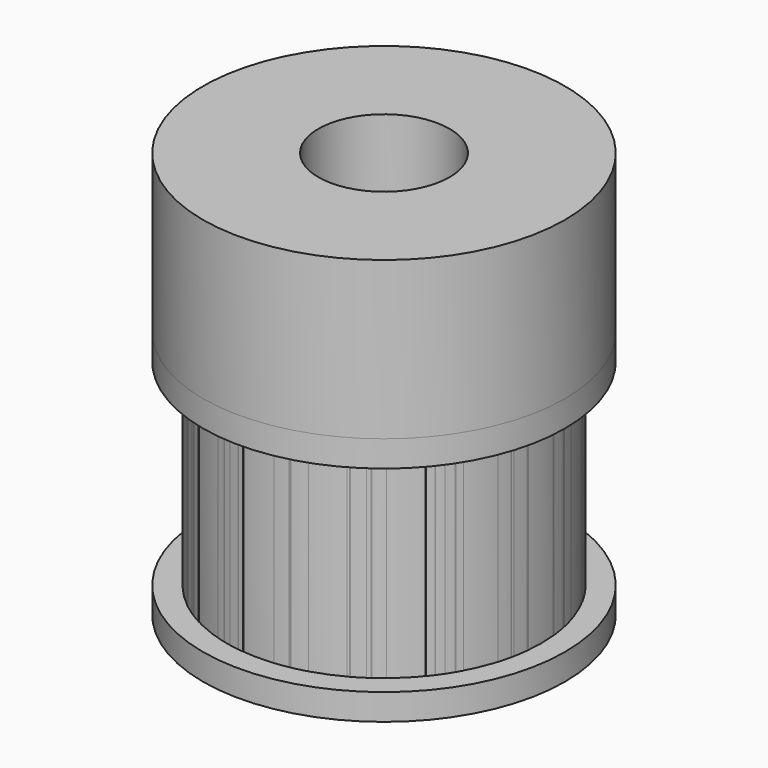
from build123d import *

# Parameters (mm, degrees)
F0_R      = 6.9
F0_R_2    = 2.5
F1_DEPTH  = 15.5
F2_START  = 1
F2_DEPTH  = 7.5
F3_R      = 1.25
F4_DEPTH  = 25
F6_DEPTH  = 9.5
F7_START  = 1
F7_DEPTH  = 7.5
F5_R      = 1.5
F8_DEPTH  = 25
F5_R_2    = 6.9
F5_R_3    = 6
F9_DEPTH  = 9.5
F10_START = 1
F10_DEPTH = 7.5


with BuildPart() as f1:
    # F0 (on Top) → F1 (new body)
    with BuildSketch(Plane.XY):
        Circle(F0_R)
        with BuildLine():
            ThreePointArc((-0.4900857016, 4.9759236334), (-0.2453383716, 4.993977281), (0, 5))
            ThreePointArc((0, 5), (0.2453383716, 4.993977281), (0.4900857016, 4.9759236334))
            Line((0.4900857016, 4.9759236334), (0.588102842, 5.97110836))
            ThreePointArc((0.588102842, 5.97110836), (0.8803828467, 5.9350590598), (1.1705419321, 5.8847116824))
            ThreePointArc((1.1705419321, 5.8847116824), (1.4578810794, 5.8201875192), (1.7417080635, 5.7416420144))
            Line((1.7417080635, 5.7416420144), (1.4514233863, 4.7847016787))
            ThreePointArc((1.4514233863, 4.7847016787), (1.684449267, 4.7077203259), (1.9134171618, 4.6193976626))
            ThreePointArc((1.9134171618, 4.6193976626), (2.1377754672, 4.5199464656), (2.3569836841, 4.4096063217))
            Line((2.3569836841, 4.4096063217), (2.828380421, 5.2915275861))
            ThreePointArc((2.828380421, 5.2915275861), (3.0846164652, 5.14637166), (3.3334213981, 4.9888176738))
            ThreePointArc((3.3334213981, 4.9888176738), (3.574195827, 4.8192451889), (3.806359705, 4.6380627202))
            Line((3.806359705, 4.6380627202), (3.1719664208, 3.8650522668))
            ThreePointArc((3.1719664208, 3.8650522668), (3.3577947742, 3.7047556268), (3.5355339059, 3.5355339059))
            ThreePointArc((3.5355339059, 3.5355339059), (3.7047556268, 3.3577947742), (3.8650522668, 3.1719664208))
            Line((3.8650522668, 3.1719664208), (4.6380627202, 3.806359705))
            ThreePointArc((4.6380627202, 3.806359705), (4.8192451889, 3.574195827), (4.9888176738, 3.3334213981))
            ThreePointArc((4.9888176738, 3.3334213981), (5.14637166, 3.0846164652), (5.2915275861, 2.828380421))
            Line((5.2915275861, 2.828380421), (4.4096063217, 2.3569836841))
            ThreePointArc((4.4096063217, 2.3569836841), (4.5199464656, 2.1377754672), (4.6193976626, 1.9134171618))
            ThreePointArc((4.6193976626, 1.9134171618), (4.7077203259, 1.684449267), (4.7847016787, 1.4514233863))
            Line((4.7847016787, 1.4514233863), (5.7416420144, 1.7417080635))
            ThreePointArc((5.7416420144, 1.7417080635), (5.8201875192, 1.4578810794), (5.8847116824, 1.1705419321))
            ThreePointArc((5.8847116824, 1.1705419321), (5.9350590598, 0.8803828467), (5.97110836, 0.588102842))
            Line((5.97110836, 0.588102842), (4.9759236334, 0.4900857016))
            ThreePointArc((4.9759236334, 0.4900857016), (4.993977281, 0.2453383716), (5, 0))
            ThreePointArc((5, 0), (4.993977281, -0.2453383716), (4.9759236334, -0.4900857016))
            Line((4.9759236334, -0.4900857016), (5.97110836, -0.588102842))
            ThreePointArc((5.97110836, -0.588102842), (5.9350590598, -0.8803828467), (5.8847116824, -1.1705419321))
            ThreePointArc((5.8847116824, -1.1705419321), (5.8201875192, -1.4578810794), (5.7416420144, -1.7417080635))
            Line((5.7416420144, -1.7417080635), (4.7847016787, -1.4514233863))
            ThreePointArc((4.7847016787, -1.4514233863), (4.7077203259, -1.684449267), (4.6193976626, -1.9134171618))
            ThreePointArc((4.6193976626, -1.9134171618), (4.5199464656, -2.1377754672), (4.4096063217, -2.3569836841))
            Line((4.4096063217, -2.3569836841), (5.2915275861, -2.828380421))
            ThreePointArc((5.2915275861, -2.828380421), (5.14637166, -3.0846164652), (4.9888176738, -3.3334213981))
            ThreePointArc((4.9888176738, -3.3334213981), (4.8192451889, -3.574195827), (4.6380627202, -3.806359705))
            Line((4.6380627202, -3.806359705), (3.8650522668, -3.1719664208))
            ThreePointArc((3.8650522668, -3.1719664208), (3.7047556268, -3.3577947742), (3.5355339059, -3.5355339059))
            ThreePointArc((3.5355339059, -3.5355339059), (3.3577947742, -3.7047556268), (3.1719664208, -3.8650522668))
            Line((3.1719664208, -3.8650522668), (3.806359705, -4.6380627202))
            ThreePointArc((3.806359705, -4.6380627202), (3.574195827, -4.8192451889), (3.3334213981, -4.9888176738))
            ThreePointArc((3.3334213981, -4.9888176738), (3.0846164652, -5.14637166), (2.828380421, -5.2915275861))
            Line((2.828380421, -5.2915275861), (2.3569836841, -4.4096063217))
            ThreePointArc((2.3569836841, -4.4096063217), (2.1377754672, -4.5199464656), (1.9134171618, -4.6193976626))
            ThreePointArc((1.9134171618, -4.6193976626), (1.684449267, -4.7077203259), (1.4514233863, -4.7847016787))
            Line((1.4514233863, -4.7847016787), (1.7417080635, -5.7416420144))
            ThreePointArc((1.7417080635, -5.7416420144), (1.4578810794, -5.8201875192), (1.1705419321, -5.8847116824))
            ThreePointArc((1.1705419321, -5.8847116824), (0.8803828467, -5.9350590598), (0.588102842, -5.97110836))
            Line((0.588102842, -5.97110836), (0.4900857016, -4.9759236334))
            ThreePointArc((0.4900857016, -4.9759236334), (0.2453383716, -4.993977281), (0, -5))
            ThreePointArc((0, -5), (-0.2453383716, -4.993977281), (-0.4900857016, -4.9759236334))
            Line((-0.4900857016, -4.9759236334), (-0.588102842, -5.97110836))
            ThreePointArc((-0.588102842, -5.97110836), (-0.8803828467, -5.9350590598), (-1.1705419321, -5.8847116824))
            ThreePointArc((-1.1705419321, -5.8847116824), (-1.4578810794, -5.8201875192), (-1.7417080635, -5.7416420144))
            Line((-1.7417080635, -5.7416420144), (-1.4514233863, -4.7847016787))
            ThreePointArc((-1.4514233863, -4.7847016787), (-1.684449267, -4.7077203259), (-1.9134171618, -4.6193976626))
            ThreePointArc((-1.9134171618, -4.6193976626), (-2.1377754672, -4.5199464656), (-2.3569836841, -4.4096063217))
            Line((-2.3569836841, -4.4096063217), (-2.828380421, -5.2915275861))
            ThreePointArc((-2.828380421, -5.2915275861), (-3.0846164652, -5.14637166), (-3.3334213981, -4.9888176738))
            ThreePointArc((-3.3334213981, -4.9888176738), (-3.574195827, -4.8192451889), (-3.806359705, -4.6380627202))
            Line((-3.806359705, -4.6380627202), (-3.1719664208, -3.8650522668))
            ThreePointArc((-3.1719664208, -3.8650522668), (-3.3577947742, -3.7047556268), (-3.5355339059, -3.5355339059))
            ThreePointArc((-3.5355339059, -3.5355339059), (-3.7047556268, -3.3577947742), (-3.8650522668, -3.1719664208))
            Line((-3.8650522668, -3.1719664208), (-4.6380627202, -3.806359705))
            ThreePointArc((-4.6380627202, -3.806359705), (-4.8192451889, -3.574195827), (-4.9888176738, -3.3334213981))
            ThreePointArc((-4.9888176738, -3.3334213981), (-5.14637166, -3.0846164652), (-5.2915275861, -2.828380421))
            Line((-5.2915275861, -2.828380421), (-4.4096063217, -2.3569836841))
            ThreePointArc((-4.4096063217, -2.3569836841), (-4.5199464656, -2.1377754672), (-4.6193976626, -1.9134171618))
            ThreePointArc((-4.6193976626, -1.9134171618), (-4.7077203259, -1.684449267), (-4.7847016787, -1.4514233863))
            Line((-4.7847016787, -1.4514233863), (-5.7416420144, -1.7417080635))
            ThreePointArc((-5.7416420144, -1.7417080635), (-5.8201875192, -1.4578810794), (-5.8847116824, -1.1705419321))
            ThreePointArc((-5.8847116824, -1.1705419321), (-5.9350590598, -0.8803828467), (-5.97110836, -0.588102842))
            Line((-5.97110836, -0.588102842), (-4.9759236334, -0.4900857016))
            ThreePointArc((-4.9759236334, -0.4900857016), (-4.993977281, -0.2453383716), (-5, 0))
            ThreePointArc((-5, 0), (-4.993977281, 0.2453383716), (-4.9759236334, 0.4900857016))
            Line((-4.9759236334, 0.4900857016), (-5.97110836, 0.588102842))
            ThreePointArc((-5.97110836, 0.588102842), (-5.9350590598, 0.8803828467), (-5.8847116824, 1.1705419321))
            ThreePointArc((-5.8847116824, 1.1705419321), (-5.8201875192, 1.4578810794), (-5.7416420144, 1.7417080635))
            Line((-5.7416420144, 1.7417080635), (-4.7847016787, 1.4514233863))
            ThreePointArc((-4.7847016787, 1.4514233863), (-4.7077203259, 1.684449267), (-4.6193976626, 1.9134171618))
            ThreePointArc((-4.6193976626, 1.9134171618), (-4.5199464656, 2.1377754672), (-4.4096063217, 2.3569836841))
            Line((-4.4096063217, 2.3569836841), (-5.2915275861, 2.828380421))
            ThreePointArc((-5.2915275861, 2.828380421), (-5.14637166, 3.0846164652), (-4.9888176738, 3.3334213981))
            ThreePointArc((-4.9888176738, 3.3334213981), (-4.8192451889, 3.574195827), (-4.6380627202, 3.806359705))
            Line((-4.6380627202, 3.806359705), (-3.8650522668, 3.1719664208))
            ThreePointArc((-3.8650522668, 3.1719664208), (-3.7047556268, 3.3577947742), (-3.5355339059, 3.5355339059))
            ThreePointArc((-3.5355339059, 3.5355339059), (-3.3577947742, 3.7047556268), (-3.1719664208, 3.8650522668))
            Line((-3.1719664208, 3.8650522668), (-3.806359705, 4.6380627202))
            ThreePointArc((-3.806359705, 4.6380627202), (-3.574195827, 4.8192451889), (-3.3334213981, 4.9888176738))
            ThreePointArc((-3.3334213981, 4.9888176738), (-3.0846164652, 5.14637166), (-2.828380421, 5.2915275861))
            Line((-2.828380421, 5.2915275861), (-2.3569836841, 4.4096063217))
            ThreePointArc((-2.3569836841, 4.4096063217), (-2.1377754672, 4.5199464656), (-1.9134171618, 4.6193976626))
            ThreePointArc((-1.9134171618, 4.6193976626), (-1.684449267, 4.7077203259), (-1.4514233863, 4.7847016787))
            Line((-1.4514233863, 4.7847016787), (-1.7417080635, 5.7416420144))
            ThreePointArc((-1.7417080635, 5.7416420144), (-1.4578810794, 5.8201875192), (-1.1705419321, 5.8847116824))
            ThreePointArc((-1.1705419321, 5.8847116824), (-0.8803828467, 5.9350590598), (-0.588102842, 5.97110836))
            Line((-0.588102842, 5.97110836), (-0.4900857016, 4.9759236334))
        make_face(mode=Mode.SUBTRACT)
        with BuildLine():
            ThreePointArc((0.4900857016, 4.9759236334), (0.2453383716, 4.993977281), (0, 5))
            ThreePointArc((0, 5), (-0.2453383716, 4.993977281), (-0.4900857016, 4.9759236334))
            Line((-0.4900857016, 4.9759236334), (-0.588102842, 5.97110836))
            ThreePointArc((-0.588102842, 5.97110836), (-0.8803828467, 5.9350590598), (-1.1705419321, 5.8847116824))
            ThreePointArc((-1.1705419321, 5.8847116824), (-1.4578810794, 5.8201875192), (-1.7417080635, 5.7416420144))
            Line((-1.7417080635, 5.7416420144), (-1.4514233863, 4.7847016787))
            ThreePointArc((-1.4514233863, 4.7847016787), (-1.684449267, 4.7077203259), (-1.9134171618, 4.6193976626))
            ThreePointArc((-1.9134171618, 4.6193976626), (-2.1377754672, 4.5199464656), (-2.3569836841, 4.4096063217))
            Line((-2.3569836841, 4.4096063217), (-2.828380421, 5.2915275861))
            ThreePointArc((-2.828380421, 5.2915275861), (-3.0846164652, 5.14637166), (-3.3334213981, 4.9888176738))
            ThreePointArc((-3.3334213981, 4.9888176738), (-3.574195827, 4.8192451889), (-3.806359705, 4.6380627202))
            Line((-3.806359705, 4.6380627202), (-3.1719664208, 3.8650522668))
            ThreePointArc((-3.1719664208, 3.8650522668), (-3.3577947742, 3.7047556268), (-3.5355339059, 3.5355339059))
            ThreePointArc((-3.5355339059, 3.5355339059), (-3.7047556268, 3.3577947742), (-3.8650522668, 3.1719664208))
            Line((-3.8650522668, 3.1719664208), (-4.6380627202, 3.806359705))
            ThreePointArc((-4.6380627202, 3.806359705), (-4.8192451889, 3.574195827), (-4.9888176738, 3.3334213981))
            ThreePointArc((-4.9888176738, 3.3334213981), (-5.14637166, 3.0846164652), (-5.2915275861, 2.828380421))
            Line((-5.2915275861, 2.828380421), (-4.4096063217, 2.3569836841))
            ThreePointArc((-4.4096063217, 2.3569836841), (-4.5199464656, 2.1377754672), (-4.6193976626, 1.9134171618))
            ThreePointArc((-4.6193976626, 1.9134171618), (-4.7077203259, 1.684449267), (-4.7847016787, 1.4514233863))
            Line((-4.7847016787, 1.4514233863), (-5.7416420144, 1.7417080635))
            ThreePointArc((-5.7416420144, 1.7417080635), (-5.8201875192, 1.4578810794), (-5.8847116824, 1.1705419321))
            ThreePointArc((-5.8847116824, 1.1705419321), (-5.9350590598, 0.8803828467), (-5.97110836, 0.588102842))
            Line((-5.97110836, 0.588102842), (-4.9759236334, 0.4900857016))
            ThreePointArc((-4.9759236334, 0.4900857016), (-4.993977281, 0.2453383716), (-5, 0))
            ThreePointArc((-5, 0), (-4.993977281, -0.2453383716), (-4.9759236334, -0.4900857016))
            Line((-4.9759236334, -0.4900857016), (-5.97110836, -0.588102842))
            ThreePointArc((-5.97110836, -0.588102842), (-5.9350590598, -0.8803828467), (-5.8847116824, -1.1705419321))
            ThreePointArc((-5.8847116824, -1.1705419321), (-5.8201875192, -1.4578810794), (-5.7416420144, -1.7417080635))
            Line((-5.7416420144, -1.7417080635), (-4.7847016787, -1.4514233863))
            ThreePointArc((-4.7847016787, -1.4514233863), (-4.7077203259, -1.684449267), (-4.6193976626, -1.9134171618))
            ThreePointArc((-4.6193976626, -1.9134171618), (-4.5199464656, -2.1377754672), (-4.4096063217, -2.3569836841))
            Line((-4.4096063217, -2.3569836841), (-5.2915275861, -2.828380421))
            ThreePointArc((-5.2915275861, -2.828380421), (-5.14637166, -3.0846164652), (-4.9888176738, -3.3334213981))
            ThreePointArc((-4.9888176738, -3.3334213981), (-4.8192451889, -3.574195827), (-4.6380627202, -3.806359705))
            Line((-4.6380627202, -3.806359705), (-3.8650522668, -3.1719664208))
            ThreePointArc((-3.8650522668, -3.1719664208), (-3.7047556268, -3.3577947742), (-3.5355339059, -3.5355339059))
            ThreePointArc((-3.5355339059, -3.5355339059), (-3.3577947742, -3.7047556268), (-3.1719664208, -3.8650522668))
            Line((-3.1719664208, -3.8650522668), (-3.806359705, -4.6380627202))
            ThreePointArc((-3.806359705, -4.6380627202), (-3.574195827, -4.8192451889), (-3.3334213981, -4.9888176738))
            ThreePointArc((-3.3334213981, -4.9888176738), (-3.0846164652, -5.14637166), (-2.828380421, -5.2915275861))
            Line((-2.828380421, -5.2915275861), (-2.3569836841, -4.4096063217))
            ThreePointArc((-2.3569836841, -4.4096063217), (-2.1377754672, -4.5199464656), (-1.9134171618, -4.6193976626))
            ThreePointArc((-1.9134171618, -4.6193976626), (-1.684449267, -4.7077203259), (-1.4514233863, -4.7847016787))
            Line((-1.4514233863, -4.7847016787), (-1.7417080635, -5.7416420144))
            ThreePointArc((-1.7417080635, -5.7416420144), (-1.4578810794, -5.8201875192), (-1.1705419321, -5.8847116824))
            ThreePointArc((-1.1705419321, -5.8847116824), (-0.8803828467, -5.9350590598), (-0.588102842, -5.97110836))
            Line((-0.588102842, -5.97110836), (-0.4900857016, -4.9759236334))
            ThreePointArc((-0.4900857016, -4.9759236334), (-0.2453383716, -4.993977281), (0, -5))
            ThreePointArc((0, -5), (0.2453383716, -4.993977281), (0.4900857016, -4.9759236334))
            Line((0.4900857016, -4.9759236334), (0.588102842, -5.97110836))
            ThreePointArc((0.588102842, -5.97110836), (0.8803828467, -5.9350590598), (1.1705419321, -5.8847116824))
            ThreePointArc((1.1705419321, -5.8847116824), (1.4578810794, -5.8201875192), (1.7417080635, -5.7416420144))
            Line((1.7417080635, -5.7416420144), (1.4514233863, -4.7847016787))
            ThreePointArc((1.4514233863, -4.7847016787), (1.684449267, -4.7077203259), (1.9134171618, -4.6193976626))
            ThreePointArc((1.9134171618, -4.6193976626), (2.1377754672, -4.5199464656), (2.3569836841, -4.4096063217))
            Line((2.3569836841, -4.4096063217), (2.828380421, -5.2915275861))
            ThreePointArc((2.828380421, -5.2915275861), (3.0846164652, -5.14637166), (3.3334213981, -4.9888176738))
            ThreePointArc((3.3334213981, -4.9888176738), (3.574195827, -4.8192451889), (3.806359705, -4.6380627202))
            Line((3.806359705, -4.6380627202), (3.1719664208, -3.8650522668))
            ThreePointArc((3.1719664208, -3.8650522668), (3.3577947742, -3.7047556268), (3.5355339059, -3.5355339059))
            ThreePointArc((3.5355339059, -3.5355339059), (3.7047556268, -3.3577947742), (3.8650522668, -3.1719664208))
            Line((3.8650522668, -3.1719664208), (4.6380627202, -3.806359705))
            ThreePointArc((4.6380627202, -3.806359705), (4.8192451889, -3.574195827), (4.9888176738, -3.3334213981))
            ThreePointArc((4.9888176738, -3.3334213981), (5.14637166, -3.0846164652), (5.2915275861, -2.828380421))
            Line((5.2915275861, -2.828380421), (4.4096063217, -2.3569836841))
            ThreePointArc((4.4096063217, -2.3569836841), (4.5199464656, -2.1377754672), (4.6193976626, -1.9134171618))
            ThreePointArc((4.6193976626, -1.9134171618), (4.7077203259, -1.684449267), (4.7847016787, -1.4514233863))
            Line((4.7847016787, -1.4514233863), (5.7416420144, -1.7417080635))
            ThreePointArc((5.7416420144, -1.7417080635), (5.8201875192, -1.4578810794), (5.8847116824, -1.1705419321))
            ThreePointArc((5.8847116824, -1.1705419321), (5.9350590598, -0.8803828467), (5.97110836, -0.588102842))
            Line((5.97110836, -0.588102842), (4.9759236334, -0.4900857016))
            ThreePointArc((4.9759236334, -0.4900857016), (4.993977281, -0.2453383716), (5, 0))
            ThreePointArc((5, 0), (4.993977281, 0.2453383716), (4.9759236334, 0.4900857016))
            Line((4.9759236334, 0.4900857016), (5.97110836, 0.588102842))
            ThreePointArc((5.97110836, 0.588102842), (5.9350590598, 0.8803828467), (5.8847116824, 1.1705419321))
            ThreePointArc((5.8847116824, 1.1705419321), (5.8201875192, 1.4578810794), (5.7416420144, 1.7417080635))
            Line((5.7416420144, 1.7417080635), (4.7847016787, 1.4514233863))
            ThreePointArc((4.7847016787, 1.4514233863), (4.7077203259, 1.684449267), (4.6193976626, 1.9134171618))
            ThreePointArc((4.6193976626, 1.9134171618), (4.5199464656, 2.1377754672), (4.4096063217, 2.3569836841))
            Line((4.4096063217, 2.3569836841), (5.2915275861, 2.828380421))
            ThreePointArc((5.2915275861, 2.828380421), (5.14637166, 3.0846164652), (4.9888176738, 3.3334213981))
            ThreePointArc((4.9888176738, 3.3334213981), (4.8192451889, 3.574195827), (4.6380627202, 3.806359705))
            Line((4.6380627202, 3.806359705), (3.8650522668, 3.1719664208))
            ThreePointArc((3.8650522668, 3.1719664208), (3.7047556268, 3.3577947742), (3.5355339059, 3.5355339059))
            ThreePointArc((3.5355339059, 3.5355339059), (3.3577947742, 3.7047556268), (3.1719664208, 3.8650522668))
            Line((3.1719664208, 3.8650522668), (3.806359705, 4.6380627202))
            ThreePointArc((3.806359705, 4.6380627202), (3.574195827, 4.8192451889), (3.3334213981, 4.9888176738))
            ThreePointArc((3.3334213981, 4.9888176738), (3.0846164652, 5.14637166), (2.828380421, 5.2915275861))
            Line((2.828380421, 5.2915275861), (2.3569836841, 4.4096063217))
            ThreePointArc((2.3569836841, 4.4096063217), (2.1377754672, 4.5199464656), (1.9134171618, 4.6193976626))
            ThreePointArc((1.9134171618, 4.6193976626), (1.684449267, 4.7077203259), (1.4514233863, 4.7847016787))
            Line((1.4514233863, 4.7847016787), (1.7417080635, 5.7416420144))
            ThreePointArc((1.7417080635, 5.7416420144), (1.4578810794, 5.8201875192), (1.1705419321, 5.8847116824))
            ThreePointArc((1.1705419321, 5.8847116824), (0.8803828467, 5.9350590598), (0.588102842, 5.97110836))
            Line((0.588102842, 5.97110836), (0.4900857016, 4.9759236334))
        make_face()
        Circle(F0_R_2, mode=Mode.SUBTRACT)
    extrude(amount=F1_DEPTH)

    # F0 (on Top) → F2 (cut)
    with BuildSketch(Plane.XY.offset(F2_START)):
        Circle(F0_R)
        with BuildLine():
            ThreePointArc((-0.4900857016, 4.9759236334), (-0.2453383716, 4.993977281), (0, 5))
            ThreePointArc((0, 5), (0.2453383716, 4.993977281), (0.4900857016, 4.9759236334))
            Line((0.4900857016, 4.9759236334), (0.588102842, 5.97110836))
            ThreePointArc((0.588102842, 5.97110836), (0.8803828467, 5.9350590598), (1.1705419321, 5.8847116824))
            ThreePointArc((1.1705419321, 5.8847116824), (1.4578810794, 5.8201875192), (1.7417080635, 5.7416420144))
            Line((1.7417080635, 5.7416420144), (1.4514233863, 4.7847016787))
            ThreePointArc((1.4514233863, 4.7847016787), (1.684449267, 4.7077203259), (1.9134171618, 4.6193976626))
            ThreePointArc((1.9134171618, 4.6193976626), (2.1377754672, 4.5199464656), (2.3569836841, 4.4096063217))
            Line((2.3569836841, 4.4096063217), (2.828380421, 5.2915275861))
            ThreePointArc((2.828380421, 5.2915275861), (3.0846164652, 5.14637166), (3.3334213981, 4.9888176738))
            ThreePointArc((3.3334213981, 4.9888176738), (3.574195827, 4.8192451889), (3.806359705, 4.6380627202))
            Line((3.806359705, 4.6380627202), (3.1719664208, 3.8650522668))
            ThreePointArc((3.1719664208, 3.8650522668), (3.3577947742, 3.7047556268), (3.5355339059, 3.5355339059))
            ThreePointArc((3.5355339059, 3.5355339059), (3.7047556268, 3.3577947742), (3.8650522668, 3.1719664208))
            Line((3.8650522668, 3.1719664208), (4.6380627202, 3.806359705))
            ThreePointArc((4.6380627202, 3.806359705), (4.8192451889, 3.574195827), (4.9888176738, 3.3334213981))
            ThreePointArc((4.9888176738, 3.3334213981), (5.14637166, 3.0846164652), (5.2915275861, 2.828380421))
            Line((5.2915275861, 2.828380421), (4.4096063217, 2.3569836841))
            ThreePointArc((4.4096063217, 2.3569836841), (4.5199464656, 2.1377754672), (4.6193976626, 1.9134171618))
            ThreePointArc((4.6193976626, 1.9134171618), (4.7077203259, 1.684449267), (4.7847016787, 1.4514233863))
            Line((4.7847016787, 1.4514233863), (5.7416420144, 1.7417080635))
            ThreePointArc((5.7416420144, 1.7417080635), (5.8201875192, 1.4578810794), (5.8847116824, 1.1705419321))
            ThreePointArc((5.8847116824, 1.1705419321), (5.9350590598, 0.8803828467), (5.97110836, 0.588102842))
            Line((5.97110836, 0.588102842), (4.9759236334, 0.4900857016))
            ThreePointArc((4.9759236334, 0.4900857016), (4.993977281, 0.2453383716), (5, 0))
            ThreePointArc((5, 0), (4.993977281, -0.2453383716), (4.9759236334, -0.4900857016))
            Line((4.9759236334, -0.4900857016), (5.97110836, -0.588102842))
            ThreePointArc((5.97110836, -0.588102842), (5.9350590598, -0.8803828467), (5.8847116824, -1.1705419321))
            ThreePointArc((5.8847116824, -1.1705419321), (5.8201875192, -1.4578810794), (5.7416420144, -1.7417080635))
            Line((5.7416420144, -1.7417080635), (4.7847016787, -1.4514233863))
            ThreePointArc((4.7847016787, -1.4514233863), (4.7077203259, -1.684449267), (4.6193976626, -1.9134171618))
            ThreePointArc((4.6193976626, -1.9134171618), (4.5199464656, -2.1377754672), (4.4096063217, -2.3569836841))
            Line((4.4096063217, -2.3569836841), (5.2915275861, -2.828380421))
            ThreePointArc((5.2915275861, -2.828380421), (5.14637166, -3.0846164652), (4.9888176738, -3.3334213981))
            ThreePointArc((4.9888176738, -3.3334213981), (4.8192451889, -3.574195827), (4.6380627202, -3.806359705))
            Line((4.6380627202, -3.806359705), (3.8650522668, -3.1719664208))
            ThreePointArc((3.8650522668, -3.1719664208), (3.7047556268, -3.3577947742), (3.5355339059, -3.5355339059))
            ThreePointArc((3.5355339059, -3.5355339059), (3.3577947742, -3.7047556268), (3.1719664208, -3.8650522668))
            Line((3.1719664208, -3.8650522668), (3.806359705, -4.6380627202))
            ThreePointArc((3.806359705, -4.6380627202), (3.574195827, -4.8192451889), (3.3334213981, -4.9888176738))
            ThreePointArc((3.3334213981, -4.9888176738), (3.0846164652, -5.14637166), (2.828380421, -5.2915275861))
            Line((2.828380421, -5.2915275861), (2.3569836841, -4.4096063217))
            ThreePointArc((2.3569836841, -4.4096063217), (2.1377754672, -4.5199464656), (1.9134171618, -4.6193976626))
            ThreePointArc((1.9134171618, -4.6193976626), (1.684449267, -4.7077203259), (1.4514233863, -4.7847016787))
            Line((1.4514233863, -4.7847016787), (1.7417080635, -5.7416420144))
            ThreePointArc((1.7417080635, -5.7416420144), (1.4578810794, -5.8201875192), (1.1705419321, -5.8847116824))
            ThreePointArc((1.1705419321, -5.8847116824), (0.8803828467, -5.9350590598), (0.588102842, -5.97110836))
            Line((0.588102842, -5.97110836), (0.4900857016, -4.9759236334))
            ThreePointArc((0.4900857016, -4.9759236334), (0.2453383716, -4.993977281), (0, -5))
            ThreePointArc((0, -5), (-0.2453383716, -4.993977281), (-0.4900857016, -4.9759236334))
            Line((-0.4900857016, -4.9759236334), (-0.588102842, -5.97110836))
            ThreePointArc((-0.588102842, -5.97110836), (-0.8803828467, -5.9350590598), (-1.1705419321, -5.8847116824))
            ThreePointArc((-1.1705419321, -5.8847116824), (-1.4578810794, -5.8201875192), (-1.7417080635, -5.7416420144))
            Line((-1.7417080635, -5.7416420144), (-1.4514233863, -4.7847016787))
            ThreePointArc((-1.4514233863, -4.7847016787), (-1.684449267, -4.7077203259), (-1.9134171618, -4.6193976626))
            ThreePointArc((-1.9134171618, -4.6193976626), (-2.1377754672, -4.5199464656), (-2.3569836841, -4.4096063217))
            Line((-2.3569836841, -4.4096063217), (-2.828380421, -5.2915275861))
            ThreePointArc((-2.828380421, -5.2915275861), (-3.0846164652, -5.14637166), (-3.3334213981, -4.9888176738))
            ThreePointArc((-3.3334213981, -4.9888176738), (-3.574195827, -4.8192451889), (-3.806359705, -4.6380627202))
            Line((-3.806359705, -4.6380627202), (-3.1719664208, -3.8650522668))
            ThreePointArc((-3.1719664208, -3.8650522668), (-3.3577947742, -3.7047556268), (-3.5355339059, -3.5355339059))
            ThreePointArc((-3.5355339059, -3.5355339059), (-3.7047556268, -3.3577947742), (-3.8650522668, -3.1719664208))
            Line((-3.8650522668, -3.1719664208), (-4.6380627202, -3.806359705))
            ThreePointArc((-4.6380627202, -3.806359705), (-4.8192451889, -3.574195827), (-4.9888176738, -3.3334213981))
            ThreePointArc((-4.9888176738, -3.3334213981), (-5.14637166, -3.0846164652), (-5.2915275861, -2.828380421))
            Line((-5.2915275861, -2.828380421), (-4.4096063217, -2.3569836841))
            ThreePointArc((-4.4096063217, -2.3569836841), (-4.5199464656, -2.1377754672), (-4.6193976626, -1.9134171618))
            ThreePointArc((-4.6193976626, -1.9134171618), (-4.7077203259, -1.684449267), (-4.7847016787, -1.4514233863))
            Line((-4.7847016787, -1.4514233863), (-5.7416420144, -1.7417080635))
            ThreePointArc((-5.7416420144, -1.7417080635), (-5.8201875192, -1.4578810794), (-5.8847116824, -1.1705419321))
            ThreePointArc((-5.8847116824, -1.1705419321), (-5.9350590598, -0.8803828467), (-5.97110836, -0.588102842))
            Line((-5.97110836, -0.588102842), (-4.9759236334, -0.4900857016))
            ThreePointArc((-4.9759236334, -0.4900857016), (-4.993977281, -0.2453383716), (-5, 0))
            ThreePointArc((-5, 0), (-4.993977281, 0.2453383716), (-4.9759236334, 0.4900857016))
            Line((-4.9759236334, 0.4900857016), (-5.97110836, 0.588102842))
            ThreePointArc((-5.97110836, 0.588102842), (-5.9350590598, 0.8803828467), (-5.8847116824, 1.1705419321))
            ThreePointArc((-5.8847116824, 1.1705419321), (-5.8201875192, 1.4578810794), (-5.7416420144, 1.7417080635))
            Line((-5.7416420144, 1.7417080635), (-4.7847016787, 1.4514233863))
            ThreePointArc((-4.7847016787, 1.4514233863), (-4.7077203259, 1.684449267), (-4.6193976626, 1.9134171618))
            ThreePointArc((-4.6193976626, 1.9134171618), (-4.5199464656, 2.1377754672), (-4.4096063217, 2.3569836841))
            Line((-4.4096063217, 2.3569836841), (-5.2915275861, 2.828380421))
            ThreePointArc((-5.2915275861, 2.828380421), (-5.14637166, 3.0846164652), (-4.9888176738, 3.3334213981))
            ThreePointArc((-4.9888176738, 3.3334213981), (-4.8192451889, 3.574195827), (-4.6380627202, 3.806359705))
            Line((-4.6380627202, 3.806359705), (-3.8650522668, 3.1719664208))
            ThreePointArc((-3.8650522668, 3.1719664208), (-3.7047556268, 3.3577947742), (-3.5355339059, 3.5355339059))
            ThreePointArc((-3.5355339059, 3.5355339059), (-3.3577947742, 3.7047556268), (-3.1719664208, 3.8650522668))
            Line((-3.1719664208, 3.8650522668), (-3.806359705, 4.6380627202))
            ThreePointArc((-3.806359705, 4.6380627202), (-3.574195827, 4.8192451889), (-3.3334213981, 4.9888176738))
            ThreePointArc((-3.3334213981, 4.9888176738), (-3.0846164652, 5.14637166), (-2.828380421, 5.2915275861))
            Line((-2.828380421, 5.2915275861), (-2.3569836841, 4.4096063217))
            ThreePointArc((-2.3569836841, 4.4096063217), (-2.1377754672, 4.5199464656), (-1.9134171618, 4.6193976626))
            ThreePointArc((-1.9134171618, 4.6193976626), (-1.684449267, 4.7077203259), (-1.4514233863, 4.7847016787))
            Line((-1.4514233863, 4.7847016787), (-1.7417080635, 5.7416420144))
            ThreePointArc((-1.7417080635, 5.7416420144), (-1.4578810794, 5.8201875192), (-1.1705419321, 5.8847116824))
            ThreePointArc((-1.1705419321, 5.8847116824), (-0.8803828467, 5.9350590598), (-0.588102842, 5.97110836))
            Line((-0.588102842, 5.97110836), (-0.4900857016, 4.9759236334))
        make_face(mode=Mode.SUBTRACT)
    extrude(amount=F2_DEPTH, mode=Mode.SUBTRACT)

    # F3 (on Front) → F4 (cut)
    with BuildSketch(Plane.XZ):
        with Locations((0, 12)):
            Circle(F3_R)
    extrude(amount=-F4_DEPTH, mode=Mode.SUBTRACT)


with BuildPart() as f6:
    # F0 (on Top) → F6 (new body)
    with BuildSketch(Plane.XY):
        Circle(F0_R)
        with BuildLine():
            ThreePointArc((-0.4900857016, 4.9759236334), (-0.2453383716, 4.993977281), (0, 5))
            ThreePointArc((0, 5), (0.2453383716, 4.993977281), (0.4900857016, 4.9759236334))
            Line((0.4900857016, 4.9759236334), (0.588102842, 5.97110836))
            ThreePointArc((0.588102842, 5.97110836), (0.8803828467, 5.9350590598), (1.1705419321, 5.8847116824))
            ThreePointArc((1.1705419321, 5.8847116824), (1.4578810794, 5.8201875192), (1.7417080635, 5.7416420144))
            Line((1.7417080635, 5.7416420144), (1.4514233863, 4.7847016787))
            ThreePointArc((1.4514233863, 4.7847016787), (1.684449267, 4.7077203259), (1.9134171618, 4.6193976626))
            ThreePointArc((1.9134171618, 4.6193976626), (2.1377754672, 4.5199464656), (2.3569836841, 4.4096063217))
            Line((2.3569836841, 4.4096063217), (2.828380421, 5.2915275861))
            ThreePointArc((2.828380421, 5.2915275861), (3.0846164652, 5.14637166), (3.3334213981, 4.9888176738))
            ThreePointArc((3.3334213981, 4.9888176738), (3.574195827, 4.8192451889), (3.806359705, 4.6380627202))
            Line((3.806359705, 4.6380627202), (3.1719664208, 3.8650522668))
            ThreePointArc((3.1719664208, 3.8650522668), (3.3577947742, 3.7047556268), (3.5355339059, 3.5355339059))
            ThreePointArc((3.5355339059, 3.5355339059), (3.7047556268, 3.3577947742), (3.8650522668, 3.1719664208))
            Line((3.8650522668, 3.1719664208), (4.6380627202, 3.806359705))
            ThreePointArc((4.6380627202, 3.806359705), (4.8192451889, 3.574195827), (4.9888176738, 3.3334213981))
            ThreePointArc((4.9888176738, 3.3334213981), (5.14637166, 3.0846164652), (5.2915275861, 2.828380421))
            Line((5.2915275861, 2.828380421), (4.4096063217, 2.3569836841))
            ThreePointArc((4.4096063217, 2.3569836841), (4.5199464656, 2.1377754672), (4.6193976626, 1.9134171618))
            ThreePointArc((4.6193976626, 1.9134171618), (4.7077203259, 1.684449267), (4.7847016787, 1.4514233863))
            Line((4.7847016787, 1.4514233863), (5.7416420144, 1.7417080635))
            ThreePointArc((5.7416420144, 1.7417080635), (5.8201875192, 1.4578810794), (5.8847116824, 1.1705419321))
            ThreePointArc((5.8847116824, 1.1705419321), (5.9350590598, 0.8803828467), (5.97110836, 0.588102842))
            Line((5.97110836, 0.588102842), (4.9759236334, 0.4900857016))
            ThreePointArc((4.9759236334, 0.4900857016), (4.993977281, 0.2453383716), (5, 0))
            ThreePointArc((5, 0), (4.993977281, -0.2453383716), (4.9759236334, -0.4900857016))
            Line((4.9759236334, -0.4900857016), (5.97110836, -0.588102842))
            ThreePointArc((5.97110836, -0.588102842), (5.9350590598, -0.8803828467), (5.8847116824, -1.1705419321))
            ThreePointArc((5.8847116824, -1.1705419321), (5.8201875192, -1.4578810794), (5.7416420144, -1.7417080635))
            Line((5.7416420144, -1.7417080635), (4.7847016787, -1.4514233863))
            ThreePointArc((4.7847016787, -1.4514233863), (4.7077203259, -1.684449267), (4.6193976626, -1.9134171618))
            ThreePointArc((4.6193976626, -1.9134171618), (4.5199464656, -2.1377754672), (4.4096063217, -2.3569836841))
            Line((4.4096063217, -2.3569836841), (5.2915275861, -2.828380421))
            ThreePointArc((5.2915275861, -2.828380421), (5.14637166, -3.0846164652), (4.9888176738, -3.3334213981))
            ThreePointArc((4.9888176738, -3.3334213981), (4.8192451889, -3.574195827), (4.6380627202, -3.806359705))
            Line((4.6380627202, -3.806359705), (3.8650522668, -3.1719664208))
            ThreePointArc((3.8650522668, -3.1719664208), (3.7047556268, -3.3577947742), (3.5355339059, -3.5355339059))
            ThreePointArc((3.5355339059, -3.5355339059), (3.3577947742, -3.7047556268), (3.1719664208, -3.8650522668))
            Line((3.1719664208, -3.8650522668), (3.806359705, -4.6380627202))
            ThreePointArc((3.806359705, -4.6380627202), (3.574195827, -4.8192451889), (3.3334213981, -4.9888176738))
            ThreePointArc((3.3334213981, -4.9888176738), (3.0846164652, -5.14637166), (2.828380421, -5.2915275861))
            Line((2.828380421, -5.2915275861), (2.3569836841, -4.4096063217))
            ThreePointArc((2.3569836841, -4.4096063217), (2.1377754672, -4.5199464656), (1.9134171618, -4.6193976626))
            ThreePointArc((1.9134171618, -4.6193976626), (1.684449267, -4.7077203259), (1.4514233863, -4.7847016787))
            Line((1.4514233863, -4.7847016787), (1.7417080635, -5.7416420144))
            ThreePointArc((1.7417080635, -5.7416420144), (1.4578810794, -5.8201875192), (1.1705419321, -5.8847116824))
            ThreePointArc((1.1705419321, -5.8847116824), (0.8803828467, -5.9350590598), (0.588102842, -5.97110836))
            Line((0.588102842, -5.97110836), (0.4900857016, -4.9759236334))
            ThreePointArc((0.4900857016, -4.9759236334), (0.2453383716, -4.993977281), (0, -5))
            ThreePointArc((0, -5), (-0.2453383716, -4.993977281), (-0.4900857016, -4.9759236334))
            Line((-0.4900857016, -4.9759236334), (-0.588102842, -5.97110836))
            ThreePointArc((-0.588102842, -5.97110836), (-0.8803828467, -5.9350590598), (-1.1705419321, -5.8847116824))
            ThreePointArc((-1.1705419321, -5.8847116824), (-1.4578810794, -5.8201875192), (-1.7417080635, -5.7416420144))
            Line((-1.7417080635, -5.7416420144), (-1.4514233863, -4.7847016787))
            ThreePointArc((-1.4514233863, -4.7847016787), (-1.684449267, -4.7077203259), (-1.9134171618, -4.6193976626))
            ThreePointArc((-1.9134171618, -4.6193976626), (-2.1377754672, -4.5199464656), (-2.3569836841, -4.4096063217))
            Line((-2.3569836841, -4.4096063217), (-2.828380421, -5.2915275861))
            ThreePointArc((-2.828380421, -5.2915275861), (-3.0846164652, -5.14637166), (-3.3334213981, -4.9888176738))
            ThreePointArc((-3.3334213981, -4.9888176738), (-3.574195827, -4.8192451889), (-3.806359705, -4.6380627202))
            Line((-3.806359705, -4.6380627202), (-3.1719664208, -3.8650522668))
            ThreePointArc((-3.1719664208, -3.8650522668), (-3.3577947742, -3.7047556268), (-3.5355339059, -3.5355339059))
            ThreePointArc((-3.5355339059, -3.5355339059), (-3.7047556268, -3.3577947742), (-3.8650522668, -3.1719664208))
            Line((-3.8650522668, -3.1719664208), (-4.6380627202, -3.806359705))
            ThreePointArc((-4.6380627202, -3.806359705), (-4.8192451889, -3.574195827), (-4.9888176738, -3.3334213981))
            ThreePointArc((-4.9888176738, -3.3334213981), (-5.14637166, -3.0846164652), (-5.2915275861, -2.828380421))
            Line((-5.2915275861, -2.828380421), (-4.4096063217, -2.3569836841))
            ThreePointArc((-4.4096063217, -2.3569836841), (-4.5199464656, -2.1377754672), (-4.6193976626, -1.9134171618))
            ThreePointArc((-4.6193976626, -1.9134171618), (-4.7077203259, -1.684449267), (-4.7847016787, -1.4514233863))
            Line((-4.7847016787, -1.4514233863), (-5.7416420144, -1.7417080635))
            ThreePointArc((-5.7416420144, -1.7417080635), (-5.8201875192, -1.4578810794), (-5.8847116824, -1.1705419321))
            ThreePointArc((-5.8847116824, -1.1705419321), (-5.9350590598, -0.8803828467), (-5.97110836, -0.588102842))
            Line((-5.97110836, -0.588102842), (-4.9759236334, -0.4900857016))
            ThreePointArc((-4.9759236334, -0.4900857016), (-4.993977281, -0.2453383716), (-5, 0))
            ThreePointArc((-5, 0), (-4.993977281, 0.2453383716), (-4.9759236334, 0.4900857016))
            Line((-4.9759236334, 0.4900857016), (-5.97110836, 0.588102842))
            ThreePointArc((-5.97110836, 0.588102842), (-5.9350590598, 0.8803828467), (-5.8847116824, 1.1705419321))
            ThreePointArc((-5.8847116824, 1.1705419321), (-5.8201875192, 1.4578810794), (-5.7416420144, 1.7417080635))
            Line((-5.7416420144, 1.7417080635), (-4.7847016787, 1.4514233863))
            ThreePointArc((-4.7847016787, 1.4514233863), (-4.7077203259, 1.684449267), (-4.6193976626, 1.9134171618))
            ThreePointArc((-4.6193976626, 1.9134171618), (-4.5199464656, 2.1377754672), (-4.4096063217, 2.3569836841))
            Line((-4.4096063217, 2.3569836841), (-5.2915275861, 2.828380421))
            ThreePointArc((-5.2915275861, 2.828380421), (-5.14637166, 3.0846164652), (-4.9888176738, 3.3334213981))
            ThreePointArc((-4.9888176738, 3.3334213981), (-4.8192451889, 3.574195827), (-4.6380627202, 3.806359705))
            Line((-4.6380627202, 3.806359705), (-3.8650522668, 3.1719664208))
            ThreePointArc((-3.8650522668, 3.1719664208), (-3.7047556268, 3.3577947742), (-3.5355339059, 3.5355339059))
            ThreePointArc((-3.5355339059, 3.5355339059), (-3.3577947742, 3.7047556268), (-3.1719664208, 3.8650522668))
            Line((-3.1719664208, 3.8650522668), (-3.806359705, 4.6380627202))
            ThreePointArc((-3.806359705, 4.6380627202), (-3.574195827, 4.8192451889), (-3.3334213981, 4.9888176738))
            ThreePointArc((-3.3334213981, 4.9888176738), (-3.0846164652, 5.14637166), (-2.828380421, 5.2915275861))
            Line((-2.828380421, 5.2915275861), (-2.3569836841, 4.4096063217))
            ThreePointArc((-2.3569836841, 4.4096063217), (-2.1377754672, 4.5199464656), (-1.9134171618, 4.6193976626))
            ThreePointArc((-1.9134171618, 4.6193976626), (-1.684449267, 4.7077203259), (-1.4514233863, 4.7847016787))
            Line((-1.4514233863, 4.7847016787), (-1.7417080635, 5.7416420144))
            ThreePointArc((-1.7417080635, 5.7416420144), (-1.4578810794, 5.8201875192), (-1.1705419321, 5.8847116824))
            ThreePointArc((-1.1705419321, 5.8847116824), (-0.8803828467, 5.9350590598), (-0.588102842, 5.97110836))
            Line((-0.588102842, 5.97110836), (-0.4900857016, 4.9759236334))
        make_face(mode=Mode.SUBTRACT)
        with BuildLine():
            ThreePointArc((0.4900857016, 4.9759236334), (0.2453383716, 4.993977281), (0, 5))
            ThreePointArc((0, 5), (-0.2453383716, 4.993977281), (-0.4900857016, 4.9759236334))
            Line((-0.4900857016, 4.9759236334), (-0.588102842, 5.97110836))
            ThreePointArc((-0.588102842, 5.97110836), (-0.8803828467, 5.9350590598), (-1.1705419321, 5.8847116824))
            ThreePointArc((-1.1705419321, 5.8847116824), (-1.4578810794, 5.8201875192), (-1.7417080635, 5.7416420144))
            Line((-1.7417080635, 5.7416420144), (-1.4514233863, 4.7847016787))
            ThreePointArc((-1.4514233863, 4.7847016787), (-1.684449267, 4.7077203259), (-1.9134171618, 4.6193976626))
            ThreePointArc((-1.9134171618, 4.6193976626), (-2.1377754672, 4.5199464656), (-2.3569836841, 4.4096063217))
            Line((-2.3569836841, 4.4096063217), (-2.828380421, 5.2915275861))
            ThreePointArc((-2.828380421, 5.2915275861), (-3.0846164652, 5.14637166), (-3.3334213981, 4.9888176738))
            ThreePointArc((-3.3334213981, 4.9888176738), (-3.574195827, 4.8192451889), (-3.806359705, 4.6380627202))
            Line((-3.806359705, 4.6380627202), (-3.1719664208, 3.8650522668))
            ThreePointArc((-3.1719664208, 3.8650522668), (-3.3577947742, 3.7047556268), (-3.5355339059, 3.5355339059))
            ThreePointArc((-3.5355339059, 3.5355339059), (-3.7047556268, 3.3577947742), (-3.8650522668, 3.1719664208))
            Line((-3.8650522668, 3.1719664208), (-4.6380627202, 3.806359705))
            ThreePointArc((-4.6380627202, 3.806359705), (-4.8192451889, 3.574195827), (-4.9888176738, 3.3334213981))
            ThreePointArc((-4.9888176738, 3.3334213981), (-5.14637166, 3.0846164652), (-5.2915275861, 2.828380421))
            Line((-5.2915275861, 2.828380421), (-4.4096063217, 2.3569836841))
            ThreePointArc((-4.4096063217, 2.3569836841), (-4.5199464656, 2.1377754672), (-4.6193976626, 1.9134171618))
            ThreePointArc((-4.6193976626, 1.9134171618), (-4.7077203259, 1.684449267), (-4.7847016787, 1.4514233863))
            Line((-4.7847016787, 1.4514233863), (-5.7416420144, 1.7417080635))
            ThreePointArc((-5.7416420144, 1.7417080635), (-5.8201875192, 1.4578810794), (-5.8847116824, 1.1705419321))
            ThreePointArc((-5.8847116824, 1.1705419321), (-5.9350590598, 0.8803828467), (-5.97110836, 0.588102842))
            Line((-5.97110836, 0.588102842), (-4.9759236334, 0.4900857016))
            ThreePointArc((-4.9759236334, 0.4900857016), (-4.993977281, 0.2453383716), (-5, 0))
            ThreePointArc((-5, 0), (-4.993977281, -0.2453383716), (-4.9759236334, -0.4900857016))
            Line((-4.9759236334, -0.4900857016), (-5.97110836, -0.588102842))
            ThreePointArc((-5.97110836, -0.588102842), (-5.9350590598, -0.8803828467), (-5.8847116824, -1.1705419321))
            ThreePointArc((-5.8847116824, -1.1705419321), (-5.8201875192, -1.4578810794), (-5.7416420144, -1.7417080635))
            Line((-5.7416420144, -1.7417080635), (-4.7847016787, -1.4514233863))
            ThreePointArc((-4.7847016787, -1.4514233863), (-4.7077203259, -1.684449267), (-4.6193976626, -1.9134171618))
            ThreePointArc((-4.6193976626, -1.9134171618), (-4.5199464656, -2.1377754672), (-4.4096063217, -2.3569836841))
            Line((-4.4096063217, -2.3569836841), (-5.2915275861, -2.828380421))
            ThreePointArc((-5.2915275861, -2.828380421), (-5.14637166, -3.0846164652), (-4.9888176738, -3.3334213981))
            ThreePointArc((-4.9888176738, -3.3334213981), (-4.8192451889, -3.574195827), (-4.6380627202, -3.806359705))
            Line((-4.6380627202, -3.806359705), (-3.8650522668, -3.1719664208))
            ThreePointArc((-3.8650522668, -3.1719664208), (-3.7047556268, -3.3577947742), (-3.5355339059, -3.5355339059))
            ThreePointArc((-3.5355339059, -3.5355339059), (-3.3577947742, -3.7047556268), (-3.1719664208, -3.8650522668))
            Line((-3.1719664208, -3.8650522668), (-3.806359705, -4.6380627202))
            ThreePointArc((-3.806359705, -4.6380627202), (-3.574195827, -4.8192451889), (-3.3334213981, -4.9888176738))
            ThreePointArc((-3.3334213981, -4.9888176738), (-3.0846164652, -5.14637166), (-2.828380421, -5.2915275861))
            Line((-2.828380421, -5.2915275861), (-2.3569836841, -4.4096063217))
            ThreePointArc((-2.3569836841, -4.4096063217), (-2.1377754672, -4.5199464656), (-1.9134171618, -4.6193976626))
            ThreePointArc((-1.9134171618, -4.6193976626), (-1.684449267, -4.7077203259), (-1.4514233863, -4.7847016787))
            Line((-1.4514233863, -4.7847016787), (-1.7417080635, -5.7416420144))
            ThreePointArc((-1.7417080635, -5.7416420144), (-1.4578810794, -5.8201875192), (-1.1705419321, -5.8847116824))
            ThreePointArc((-1.1705419321, -5.8847116824), (-0.8803828467, -5.9350590598), (-0.588102842, -5.97110836))
            Line((-0.588102842, -5.97110836), (-0.4900857016, -4.9759236334))
            ThreePointArc((-0.4900857016, -4.9759236334), (-0.2453383716, -4.993977281), (0, -5))
            ThreePointArc((0, -5), (0.2453383716, -4.993977281), (0.4900857016, -4.9759236334))
            Line((0.4900857016, -4.9759236334), (0.588102842, -5.97110836))
            ThreePointArc((0.588102842, -5.97110836), (0.8803828467, -5.9350590598), (1.1705419321, -5.8847116824))
            ThreePointArc((1.1705419321, -5.8847116824), (1.4578810794, -5.8201875192), (1.7417080635, -5.7416420144))
            Line((1.7417080635, -5.7416420144), (1.4514233863, -4.7847016787))
            ThreePointArc((1.4514233863, -4.7847016787), (1.684449267, -4.7077203259), (1.9134171618, -4.6193976626))
            ThreePointArc((1.9134171618, -4.6193976626), (2.1377754672, -4.5199464656), (2.3569836841, -4.4096063217))
            Line((2.3569836841, -4.4096063217), (2.828380421, -5.2915275861))
            ThreePointArc((2.828380421, -5.2915275861), (3.0846164652, -5.14637166), (3.3334213981, -4.9888176738))
            ThreePointArc((3.3334213981, -4.9888176738), (3.574195827, -4.8192451889), (3.806359705, -4.6380627202))
            Line((3.806359705, -4.6380627202), (3.1719664208, -3.8650522668))
            ThreePointArc((3.1719664208, -3.8650522668), (3.3577947742, -3.7047556268), (3.5355339059, -3.5355339059))
            ThreePointArc((3.5355339059, -3.5355339059), (3.7047556268, -3.3577947742), (3.8650522668, -3.1719664208))
            Line((3.8650522668, -3.1719664208), (4.6380627202, -3.806359705))
            ThreePointArc((4.6380627202, -3.806359705), (4.8192451889, -3.574195827), (4.9888176738, -3.3334213981))
            ThreePointArc((4.9888176738, -3.3334213981), (5.14637166, -3.0846164652), (5.2915275861, -2.828380421))
            Line((5.2915275861, -2.828380421), (4.4096063217, -2.3569836841))
            ThreePointArc((4.4096063217, -2.3569836841), (4.5199464656, -2.1377754672), (4.6193976626, -1.9134171618))
            ThreePointArc((4.6193976626, -1.9134171618), (4.7077203259, -1.684449267), (4.7847016787, -1.4514233863))
            Line((4.7847016787, -1.4514233863), (5.7416420144, -1.7417080635))
            ThreePointArc((5.7416420144, -1.7417080635), (5.8201875192, -1.4578810794), (5.8847116824, -1.1705419321))
            ThreePointArc((5.8847116824, -1.1705419321), (5.9350590598, -0.8803828467), (5.97110836, -0.588102842))
            Line((5.97110836, -0.588102842), (4.9759236334, -0.4900857016))
            ThreePointArc((4.9759236334, -0.4900857016), (4.993977281, -0.2453383716), (5, 0))
            ThreePointArc((5, 0), (4.993977281, 0.2453383716), (4.9759236334, 0.4900857016))
            Line((4.9759236334, 0.4900857016), (5.97110836, 0.588102842))
            ThreePointArc((5.97110836, 0.588102842), (5.9350590598, 0.8803828467), (5.8847116824, 1.1705419321))
            ThreePointArc((5.8847116824, 1.1705419321), (5.8201875192, 1.4578810794), (5.7416420144, 1.7417080635))
            Line((5.7416420144, 1.7417080635), (4.7847016787, 1.4514233863))
            ThreePointArc((4.7847016787, 1.4514233863), (4.7077203259, 1.684449267), (4.6193976626, 1.9134171618))
            ThreePointArc((4.6193976626, 1.9134171618), (4.5199464656, 2.1377754672), (4.4096063217, 2.3569836841))
            Line((4.4096063217, 2.3569836841), (5.2915275861, 2.828380421))
            ThreePointArc((5.2915275861, 2.828380421), (5.14637166, 3.0846164652), (4.9888176738, 3.3334213981))
            ThreePointArc((4.9888176738, 3.3334213981), (4.8192451889, 3.574195827), (4.6380627202, 3.806359705))
            Line((4.6380627202, 3.806359705), (3.8650522668, 3.1719664208))
            ThreePointArc((3.8650522668, 3.1719664208), (3.7047556268, 3.3577947742), (3.5355339059, 3.5355339059))
            ThreePointArc((3.5355339059, 3.5355339059), (3.3577947742, 3.7047556268), (3.1719664208, 3.8650522668))
            Line((3.1719664208, 3.8650522668), (3.806359705, 4.6380627202))
            ThreePointArc((3.806359705, 4.6380627202), (3.574195827, 4.8192451889), (3.3334213981, 4.9888176738))
            ThreePointArc((3.3334213981, 4.9888176738), (3.0846164652, 5.14637166), (2.828380421, 5.2915275861))
            Line((2.828380421, 5.2915275861), (2.3569836841, 4.4096063217))
            ThreePointArc((2.3569836841, 4.4096063217), (2.1377754672, 4.5199464656), (1.9134171618, 4.6193976626))
            ThreePointArc((1.9134171618, 4.6193976626), (1.684449267, 4.7077203259), (1.4514233863, 4.7847016787))
            Line((1.4514233863, 4.7847016787), (1.7417080635, 5.7416420144))
            ThreePointArc((1.7417080635, 5.7416420144), (1.4578810794, 5.8201875192), (1.1705419321, 5.8847116824))
            ThreePointArc((1.1705419321, 5.8847116824), (0.8803828467, 5.9350590598), (0.588102842, 5.97110836))
            Line((0.588102842, 5.97110836), (0.4900857016, 4.9759236334))
        make_face()
        Circle(F0_R_2, mode=Mode.SUBTRACT)
        Circle(F0_R_2)
    extrude(amount=F6_DEPTH)

    # F0 (on Top) → F7 (cut)
    with BuildSketch(Plane.XY.offset(F7_START)):
        Circle(F0_R)
        with BuildLine():
            ThreePointArc((-0.4900857016, 4.9759236334), (-0.2453383716, 4.993977281), (0, 5))
            ThreePointArc((0, 5), (0.2453383716, 4.993977281), (0.4900857016, 4.9759236334))
            Line((0.4900857016, 4.9759236334), (0.588102842, 5.97110836))
            ThreePointArc((0.588102842, 5.97110836), (0.8803828467, 5.9350590598), (1.1705419321, 5.8847116824))
            ThreePointArc((1.1705419321, 5.8847116824), (1.4578810794, 5.8201875192), (1.7417080635, 5.7416420144))
            Line((1.7417080635, 5.7416420144), (1.4514233863, 4.7847016787))
            ThreePointArc((1.4514233863, 4.7847016787), (1.684449267, 4.7077203259), (1.9134171618, 4.6193976626))
            ThreePointArc((1.9134171618, 4.6193976626), (2.1377754672, 4.5199464656), (2.3569836841, 4.4096063217))
            Line((2.3569836841, 4.4096063217), (2.828380421, 5.2915275861))
            ThreePointArc((2.828380421, 5.2915275861), (3.0846164652, 5.14637166), (3.3334213981, 4.9888176738))
            ThreePointArc((3.3334213981, 4.9888176738), (3.574195827, 4.8192451889), (3.806359705, 4.6380627202))
            Line((3.806359705, 4.6380627202), (3.1719664208, 3.8650522668))
            ThreePointArc((3.1719664208, 3.8650522668), (3.3577947742, 3.7047556268), (3.5355339059, 3.5355339059))
            ThreePointArc((3.5355339059, 3.5355339059), (3.7047556268, 3.3577947742), (3.8650522668, 3.1719664208))
            Line((3.8650522668, 3.1719664208), (4.6380627202, 3.806359705))
            ThreePointArc((4.6380627202, 3.806359705), (4.8192451889, 3.574195827), (4.9888176738, 3.3334213981))
            ThreePointArc((4.9888176738, 3.3334213981), (5.14637166, 3.0846164652), (5.2915275861, 2.828380421))
            Line((5.2915275861, 2.828380421), (4.4096063217, 2.3569836841))
            ThreePointArc((4.4096063217, 2.3569836841), (4.5199464656, 2.1377754672), (4.6193976626, 1.9134171618))
            ThreePointArc((4.6193976626, 1.9134171618), (4.7077203259, 1.684449267), (4.7847016787, 1.4514233863))
            Line((4.7847016787, 1.4514233863), (5.7416420144, 1.7417080635))
            ThreePointArc((5.7416420144, 1.7417080635), (5.8201875192, 1.4578810794), (5.8847116824, 1.1705419321))
            ThreePointArc((5.8847116824, 1.1705419321), (5.9350590598, 0.8803828467), (5.97110836, 0.588102842))
            Line((5.97110836, 0.588102842), (4.9759236334, 0.4900857016))
            ThreePointArc((4.9759236334, 0.4900857016), (4.993977281, 0.2453383716), (5, 0))
            ThreePointArc((5, 0), (4.993977281, -0.2453383716), (4.9759236334, -0.4900857016))
            Line((4.9759236334, -0.4900857016), (5.97110836, -0.588102842))
            ThreePointArc((5.97110836, -0.588102842), (5.9350590598, -0.8803828467), (5.8847116824, -1.1705419321))
            ThreePointArc((5.8847116824, -1.1705419321), (5.8201875192, -1.4578810794), (5.7416420144, -1.7417080635))
            Line((5.7416420144, -1.7417080635), (4.7847016787, -1.4514233863))
            ThreePointArc((4.7847016787, -1.4514233863), (4.7077203259, -1.684449267), (4.6193976626, -1.9134171618))
            ThreePointArc((4.6193976626, -1.9134171618), (4.5199464656, -2.1377754672), (4.4096063217, -2.3569836841))
            Line((4.4096063217, -2.3569836841), (5.2915275861, -2.828380421))
            ThreePointArc((5.2915275861, -2.828380421), (5.14637166, -3.0846164652), (4.9888176738, -3.3334213981))
            ThreePointArc((4.9888176738, -3.3334213981), (4.8192451889, -3.574195827), (4.6380627202, -3.806359705))
            Line((4.6380627202, -3.806359705), (3.8650522668, -3.1719664208))
            ThreePointArc((3.8650522668, -3.1719664208), (3.7047556268, -3.3577947742), (3.5355339059, -3.5355339059))
            ThreePointArc((3.5355339059, -3.5355339059), (3.3577947742, -3.7047556268), (3.1719664208, -3.8650522668))
            Line((3.1719664208, -3.8650522668), (3.806359705, -4.6380627202))
            ThreePointArc((3.806359705, -4.6380627202), (3.574195827, -4.8192451889), (3.3334213981, -4.9888176738))
            ThreePointArc((3.3334213981, -4.9888176738), (3.0846164652, -5.14637166), (2.828380421, -5.2915275861))
            Line((2.828380421, -5.2915275861), (2.3569836841, -4.4096063217))
            ThreePointArc((2.3569836841, -4.4096063217), (2.1377754672, -4.5199464656), (1.9134171618, -4.6193976626))
            ThreePointArc((1.9134171618, -4.6193976626), (1.684449267, -4.7077203259), (1.4514233863, -4.7847016787))
            Line((1.4514233863, -4.7847016787), (1.7417080635, -5.7416420144))
            ThreePointArc((1.7417080635, -5.7416420144), (1.4578810794, -5.8201875192), (1.1705419321, -5.8847116824))
            ThreePointArc((1.1705419321, -5.8847116824), (0.8803828467, -5.9350590598), (0.588102842, -5.97110836))
            Line((0.588102842, -5.97110836), (0.4900857016, -4.9759236334))
            ThreePointArc((0.4900857016, -4.9759236334), (0.2453383716, -4.993977281), (0, -5))
            ThreePointArc((0, -5), (-0.2453383716, -4.993977281), (-0.4900857016, -4.9759236334))
            Line((-0.4900857016, -4.9759236334), (-0.588102842, -5.97110836))
            ThreePointArc((-0.588102842, -5.97110836), (-0.8803828467, -5.9350590598), (-1.1705419321, -5.8847116824))
            ThreePointArc((-1.1705419321, -5.8847116824), (-1.4578810794, -5.8201875192), (-1.7417080635, -5.7416420144))
            Line((-1.7417080635, -5.7416420144), (-1.4514233863, -4.7847016787))
            ThreePointArc((-1.4514233863, -4.7847016787), (-1.684449267, -4.7077203259), (-1.9134171618, -4.6193976626))
            ThreePointArc((-1.9134171618, -4.6193976626), (-2.1377754672, -4.5199464656), (-2.3569836841, -4.4096063217))
            Line((-2.3569836841, -4.4096063217), (-2.828380421, -5.2915275861))
            ThreePointArc((-2.828380421, -5.2915275861), (-3.0846164652, -5.14637166), (-3.3334213981, -4.9888176738))
            ThreePointArc((-3.3334213981, -4.9888176738), (-3.574195827, -4.8192451889), (-3.806359705, -4.6380627202))
            Line((-3.806359705, -4.6380627202), (-3.1719664208, -3.8650522668))
            ThreePointArc((-3.1719664208, -3.8650522668), (-3.3577947742, -3.7047556268), (-3.5355339059, -3.5355339059))
            ThreePointArc((-3.5355339059, -3.5355339059), (-3.7047556268, -3.3577947742), (-3.8650522668, -3.1719664208))
            Line((-3.8650522668, -3.1719664208), (-4.6380627202, -3.806359705))
            ThreePointArc((-4.6380627202, -3.806359705), (-4.8192451889, -3.574195827), (-4.9888176738, -3.3334213981))
            ThreePointArc((-4.9888176738, -3.3334213981), (-5.14637166, -3.0846164652), (-5.2915275861, -2.828380421))
            Line((-5.2915275861, -2.828380421), (-4.4096063217, -2.3569836841))
            ThreePointArc((-4.4096063217, -2.3569836841), (-4.5199464656, -2.1377754672), (-4.6193976626, -1.9134171618))
            ThreePointArc((-4.6193976626, -1.9134171618), (-4.7077203259, -1.684449267), (-4.7847016787, -1.4514233863))
            Line((-4.7847016787, -1.4514233863), (-5.7416420144, -1.7417080635))
            ThreePointArc((-5.7416420144, -1.7417080635), (-5.8201875192, -1.4578810794), (-5.8847116824, -1.1705419321))
            ThreePointArc((-5.8847116824, -1.1705419321), (-5.9350590598, -0.8803828467), (-5.97110836, -0.588102842))
            Line((-5.97110836, -0.588102842), (-4.9759236334, -0.4900857016))
            ThreePointArc((-4.9759236334, -0.4900857016), (-4.993977281, -0.2453383716), (-5, 0))
            ThreePointArc((-5, 0), (-4.993977281, 0.2453383716), (-4.9759236334, 0.4900857016))
            Line((-4.9759236334, 0.4900857016), (-5.97110836, 0.588102842))
            ThreePointArc((-5.97110836, 0.588102842), (-5.9350590598, 0.8803828467), (-5.8847116824, 1.1705419321))
            ThreePointArc((-5.8847116824, 1.1705419321), (-5.8201875192, 1.4578810794), (-5.7416420144, 1.7417080635))
            Line((-5.7416420144, 1.7417080635), (-4.7847016787, 1.4514233863))
            ThreePointArc((-4.7847016787, 1.4514233863), (-4.7077203259, 1.684449267), (-4.6193976626, 1.9134171618))
            ThreePointArc((-4.6193976626, 1.9134171618), (-4.5199464656, 2.1377754672), (-4.4096063217, 2.3569836841))
            Line((-4.4096063217, 2.3569836841), (-5.2915275861, 2.828380421))
            ThreePointArc((-5.2915275861, 2.828380421), (-5.14637166, 3.0846164652), (-4.9888176738, 3.3334213981))
            ThreePointArc((-4.9888176738, 3.3334213981), (-4.8192451889, 3.574195827), (-4.6380627202, 3.806359705))
            Line((-4.6380627202, 3.806359705), (-3.8650522668, 3.1719664208))
            ThreePointArc((-3.8650522668, 3.1719664208), (-3.7047556268, 3.3577947742), (-3.5355339059, 3.5355339059))
            ThreePointArc((-3.5355339059, 3.5355339059), (-3.3577947742, 3.7047556268), (-3.1719664208, 3.8650522668))
            Line((-3.1719664208, 3.8650522668), (-3.806359705, 4.6380627202))
            ThreePointArc((-3.806359705, 4.6380627202), (-3.574195827, 4.8192451889), (-3.3334213981, 4.9888176738))
            ThreePointArc((-3.3334213981, 4.9888176738), (-3.0846164652, 5.14637166), (-2.828380421, 5.2915275861))
            Line((-2.828380421, 5.2915275861), (-2.3569836841, 4.4096063217))
            ThreePointArc((-2.3569836841, 4.4096063217), (-2.1377754672, 4.5199464656), (-1.9134171618, 4.6193976626))
            ThreePointArc((-1.9134171618, 4.6193976626), (-1.684449267, 4.7077203259), (-1.4514233863, 4.7847016787))
            Line((-1.4514233863, 4.7847016787), (-1.7417080635, 5.7416420144))
            ThreePointArc((-1.7417080635, 5.7416420144), (-1.4578810794, 5.8201875192), (-1.1705419321, 5.8847116824))
            ThreePointArc((-1.1705419321, 5.8847116824), (-0.8803828467, 5.9350590598), (-0.588102842, 5.97110836))
            Line((-0.588102842, 5.97110836), (-0.4900857016, 4.9759236334))
        make_face(mode=Mode.SUBTRACT)
    extrude(amount=F7_DEPTH, mode=Mode.SUBTRACT)

    # F5 (on Top) → F8 (cut)
    with BuildSketch(Plane.XY):
        Circle(F5_R)
    extrude(amount=F8_DEPTH, mode=Mode.SUBTRACT)


with BuildPart() as f9:
    # F5 (on Top) → F9 (new body)
    with BuildSketch(Plane.XY):
        Circle(F5_R_2)
        Circle(F5_R_3, mode=Mode.SUBTRACT)
        Circle(F5_R_3)
        Circle(F5_R, mode=Mode.SUBTRACT)
    extrude(amount=F9_DEPTH)

    # F5 (on Top) → F10 (cut)
    with BuildSketch(Plane.XY.offset(F10_START)):
        Circle(F5_R_2)
        Circle(F5_R_3, mode=Mode.SUBTRACT)
    extrude(amount=F10_DEPTH, mode=Mode.SUBTRACT)


solid = Compound([f1.part, f6.part, f9.part])
